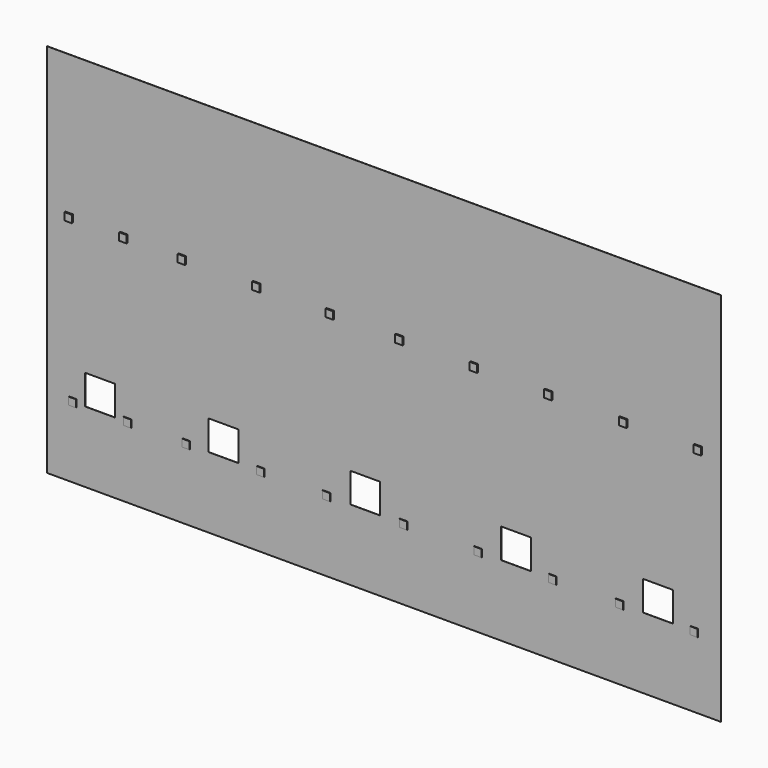
from build123d import *

# Parameters (mm, degrees)
F0_W     = 13836.65
F0_H     = 7708.9
F1_DEPTH = 3.175
F2_W     = 609.6
F2_H     = 609.6
F3_DEPTH = 3.176
F4_W     = 152.4
F4_H     = 152.4
F5_DEPTH = 6.35
F6_DEPTH = 12.7
F7_W     = 152.4
F7_H     = 152.4
F8_DEPTH = 25.4


with BuildPart() as f1:
    # F0 (on Front) → F1 (new body)
    with BuildSketch(Plane.XZ):
        with Locations((6918.325, 3854.45)):
            Rectangle(F0_W, F0_H)
    extrude(amount=F1_DEPTH)

    # F2 (on face) → F3 (cut, through all)
    with BuildSketch(Plane.XZ.offset(3.175)):
        with Locations((1092.2, 1758.95)):
            Rectangle(F2_W, F2_H)
        with Locations((3624.2625, 1758.95)):
            Rectangle(F2_W, F2_H)
        with Locations((6537.325, 1758.95)):
            Rectangle(F2_W, F2_H)
        with Locations((9628.1875, 1758.95)):
            Rectangle(F2_W, F2_H)
        with Locations((12541.25, 1758.95)):
            Rectangle(F2_W, F2_H)
    extrude(amount=-F3_DEPTH, mode=Mode.SUBTRACT)

    # F4 (on face) → F5 (join)
    with BuildSketch(Plane.XZ.offset(3.175)):
        with Locations((533.4, 1454.15)):
            Rectangle(F4_W, F4_H)
        with Locations((1657.35, 1454.15)):
            Rectangle(F4_W, F4_H)
        with Locations((2857.5, 1454.15)):
            Rectangle(F4_W, F4_H)
        with Locations((4387.85, 1454.15)):
            Rectangle(F4_W, F4_H)
        with Locations((5740.4, 1454.15)):
            Rectangle(F4_W, F4_H)
        with Locations((7321.55, 1454.15)):
            Rectangle(F4_W, F4_H)
        with Locations((8851.9, 1454.15)):
            Rectangle(F4_W, F4_H)
        with Locations((10382.25, 1454.15)):
            Rectangle(F4_W, F4_H)
        with Locations((11760.2, 1454.15)):
            Rectangle(F4_W, F4_H)
        with Locations((13290.55, 1454.15)):
            Rectangle(F4_W, F4_H)
    extrude(amount=F5_DEPTH)

    # F4 (on face) → F6 (join)
    with BuildSketch(Plane.XZ.offset(3.175)):
        with Locations((533.4, 1454.15)):
            Rectangle(F4_W, F4_H)
        with Locations((1657.35, 1454.15)):
            Rectangle(F4_W, F4_H)
        with Locations((2857.5, 1454.15)):
            Rectangle(F4_W, F4_H)
        with Locations((4387.85, 1454.15)):
            Rectangle(F4_W, F4_H)
        with Locations((5740.4, 1454.15)):
            Rectangle(F4_W, F4_H)
        with Locations((7321.55, 1454.15)):
            Rectangle(F4_W, F4_H)
        with Locations((8851.9, 1454.15)):
            Rectangle(F4_W, F4_H)
        with Locations((10382.25, 1454.15)):
            Rectangle(F4_W, F4_H)
        with Locations((11760.2, 1454.15)):
            Rectangle(F4_W, F4_H)
        with Locations((13290.55, 1454.15)):
            Rectangle(F4_W, F4_H)
    extrude(amount=F6_DEPTH)

    # F7 (on face) → F8 (join)
    with BuildSketch(Plane.XZ.offset(3.175)):
        with Locations((457.2, 4768.85)):
            Rectangle(F7_W, F7_H)
        with Locations((1581.15, 4768.85)):
            Rectangle(F7_W, F7_H)
        with Locations((2781.3, 4768.85)):
            Rectangle(F7_W, F7_H)
        with Locations((4311.65, 4768.85)):
            Rectangle(F7_W, F7_H)
        with Locations((5816.6, 4768.85)):
            Rectangle(F7_W, F7_H)
        with Locations((7245.35, 4768.85)):
            Rectangle(F7_W, F7_H)
        with Locations((8775.7, 4768.85)):
            Rectangle(F7_W, F7_H)
        with Locations((10299.7, 4768.85)):
            Rectangle(F7_W, F7_H)
        with Locations((11836.4, 4768.85)):
            Rectangle(F7_W, F7_H)
        with Locations((13366.75, 4768.85)):
            Rectangle(F7_W, F7_H)
    extrude(amount=F8_DEPTH)


solid = f1.part
